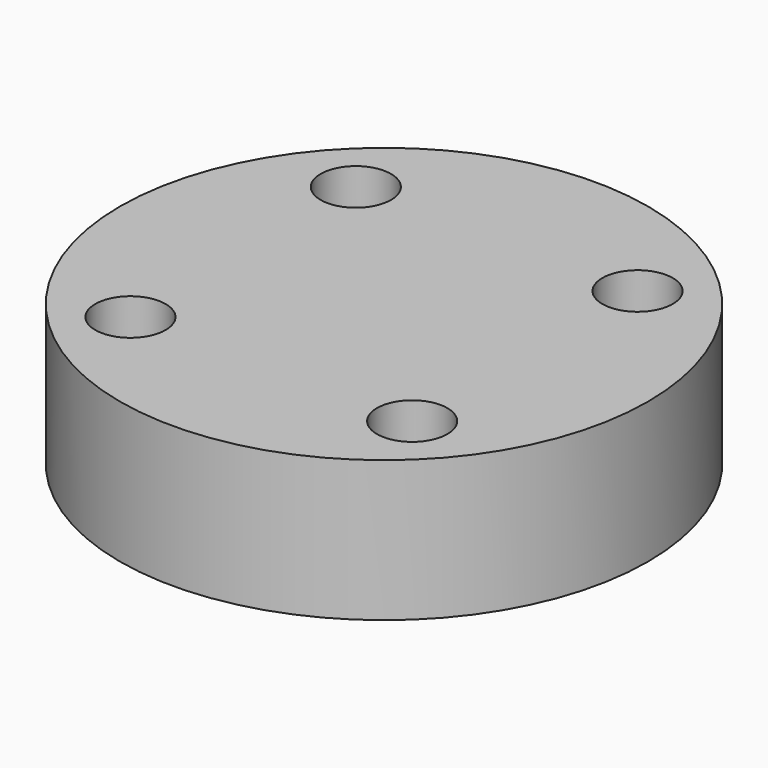
from build123d import *

# Parameters (mm, degrees)
CYLINDER1314_R     = 1
CYLINDER1314_DEPTH = 20
CYLINDER1319_R     = 1
CYLINDER1319_DEPTH = 20
CYLINDER1309_R     = 1
CYLINDER1309_DEPTH = 20
CYLINDER1321_R     = 1
CYLINDER1321_DEPTH = 20
CYLINDER1306_R     = 7.5
CYLINDER1306_DEPTH = 4


with BuildPart() as obj1:
    # Cylinder1314 → Cylinder1314 (new body)
    with BuildSketch(Plane(origin=(4, -4, -88), x_dir=(0, 1, 0), z_dir=(0, 0, 1))):
        Circle(CYLINDER1314_R)
    extrude(amount=CYLINDER1314_DEPTH)


with BuildPart() as obj2:
    # Cylinder1319 → Cylinder1319 (new body)
    with BuildSketch(Plane(origin=(4, 4, -88), x_dir=(-1, 0, 0), z_dir=(0, 0, 1))):
        Circle(CYLINDER1319_R)
    extrude(amount=CYLINDER1319_DEPTH)


with BuildPart() as obj3:
    # Cylinder1309 → Cylinder1309 (new body)
    with BuildSketch(Plane(origin=(-4, 4, -88), x_dir=(0, -1, 0), z_dir=(0, 0, 1))):
        Circle(CYLINDER1309_R)
    extrude(amount=CYLINDER1309_DEPTH)


with BuildPart() as compound937:
    # Cylinder1321 → Cylinder1321 (new body)
    with BuildSketch(Plane(origin=(-4, -4, -88), x_dir=(1, 0, 0), z_dir=(0, 0, 1))):
        Circle(CYLINDER1321_R)
    extrude(amount=CYLINDER1321_DEPTH)

    # Compound937: union obj1, obj2, obj3
    add(obj1.part)
    add(obj2.part)
    add(obj3.part)


with BuildPart() as compound937_1:
    # Compound937 placement: moved
    add(compound937.part.moved(Location((0, 0, 91))))


with BuildPart() as cut478:
    # Cylinder1306 → Cylinder1306 (new body)
    with BuildSketch(Plane.XY.offset(15)):
        Circle(CYLINDER1306_R)
    extrude(amount=CYLINDER1306_DEPTH)

    # Cut478: cut Compound937
    add(compound937_1.part, mode=Mode.SUBTRACT)


solid = cut478.part
